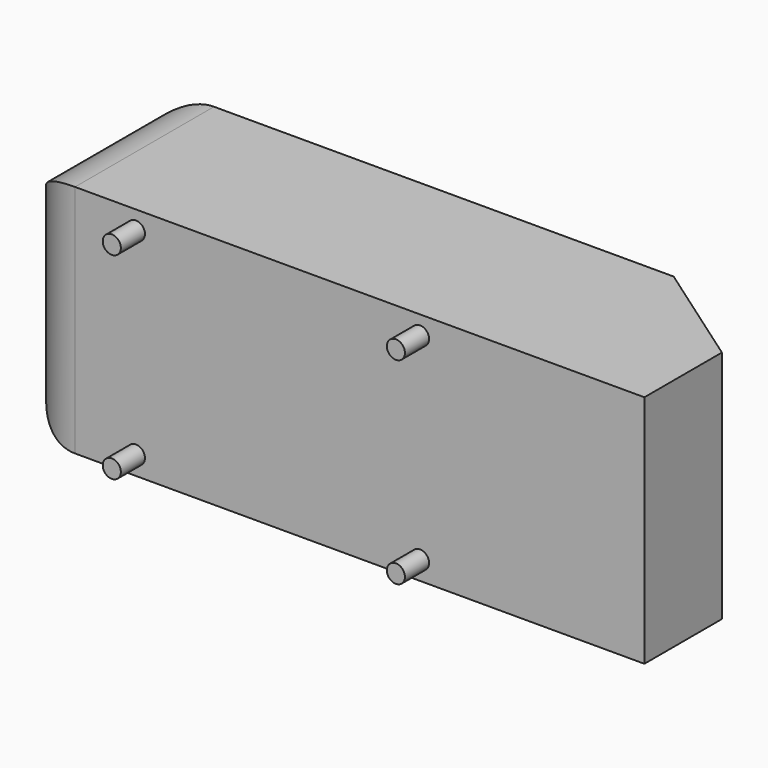
from build123d import *

# Parameters (mm, degrees)
F1_W     = 1044
F1_H     = 389
F2_DEPTH = 288
F3_R     = 100
F5_DEPTH = 389.001
F6_R     = 15
F7_DEPTH = 50


with BuildPart() as f2:
    # F1 (on Front) → F2 (new body)
    with BuildSketch(Plane.XZ):
        with Locations((6.3670966774, 0)):
            Rectangle(F1_W, F1_H)
    extrude(amount=-F2_DEPTH)

    # F3
    f3_edges = [f2.edges().sort_by_distance(p)[0] for p in [
        (-515.632903, 144, 194.5),
        (-515.632903, 144, -194.5),
        (-515.632903, 0, 0),
        (-515.632903, 288, 0),
    ]]
    fillet(f3_edges, radius=F3_R)

    # F4 (on face) → F5 (cut, through all)
    with BuildSketch(Plane.XY.offset(194.5)):
        Polygon((528.3670966774, 288), (346.5153428453, 288), (528.3670966774, 160.6660311301), align=None)
    extrude(amount=-F5_DEPTH, mode=Mode.SUBTRACT)

    # F6 (on face) → F7 (join)
    with BuildSketch(Plane.XZ):
        with Locations((-314.6329033226, 163.5)):
            Circle(F6_R)
        with Locations((156.3670966774, 163.5)):
            Circle(F6_R)
        with Locations((156.3670966774, -163.5)):
            Circle(F6_R)
        with Locations((-314.6329033226, -163.5)):
            Circle(F6_R)
    extrude(amount=F7_DEPTH)


with BuildPart() as f2_1:
    # F8: moved
    add(f2.part.moved(Location((0, 50, 0))))


solid = f2_1.part
